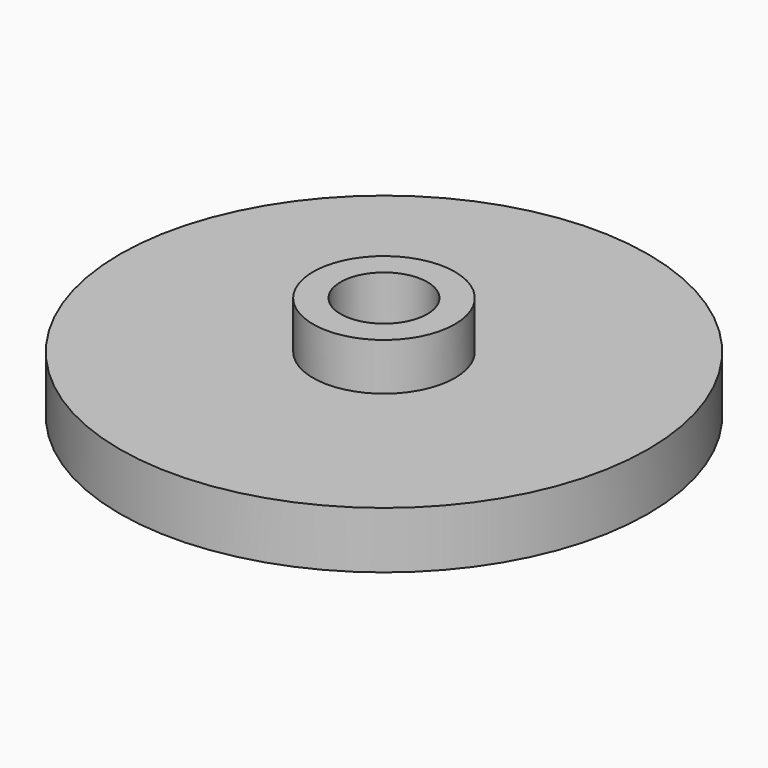
from build123d import *

# Parameters (mm, degrees)
SKETCH_R     = 16.75
PAD_DEPTH    = 3.6
SKETCH003_R  = 3.5
PAD002_DEPTH = 5.5
SKETCH001_R  = 4.5
PAD001_DEPTH = 3
SKETCH002_R  = 2.75
POCKET_DEPTH = 12.101


with BuildPart() as part:
    # Sketch → Pad (new body)
    with BuildSketch(Plane.XY):
        Circle(SKETCH_R)
    extrude(amount=PAD_DEPTH)

    # Sketch003 (on Face2 of Pocket) → Pad002 (join)
    with BuildSketch(Plane(origin=(0, 0, 0), x_dir=(1, 0, 0), z_dir=(0, 0, -1))):
        Circle(SKETCH003_R)
    extrude(amount=PAD002_DEPTH)

    # Sketch001 (on Face3 of Pad) → Pad001 (join)
    with BuildSketch(Plane.XY.offset(3.6)):
        Circle(SKETCH001_R)
    extrude(amount=PAD001_DEPTH)

    # Sketch002 (on Face5 of Pad001) → Pocket (cut, through all)
    with BuildSketch(Plane.XY.offset(6.6)):
        Circle(SKETCH002_R)
    extrude(amount=-POCKET_DEPTH, mode=Mode.SUBTRACT)


solid = part.part
